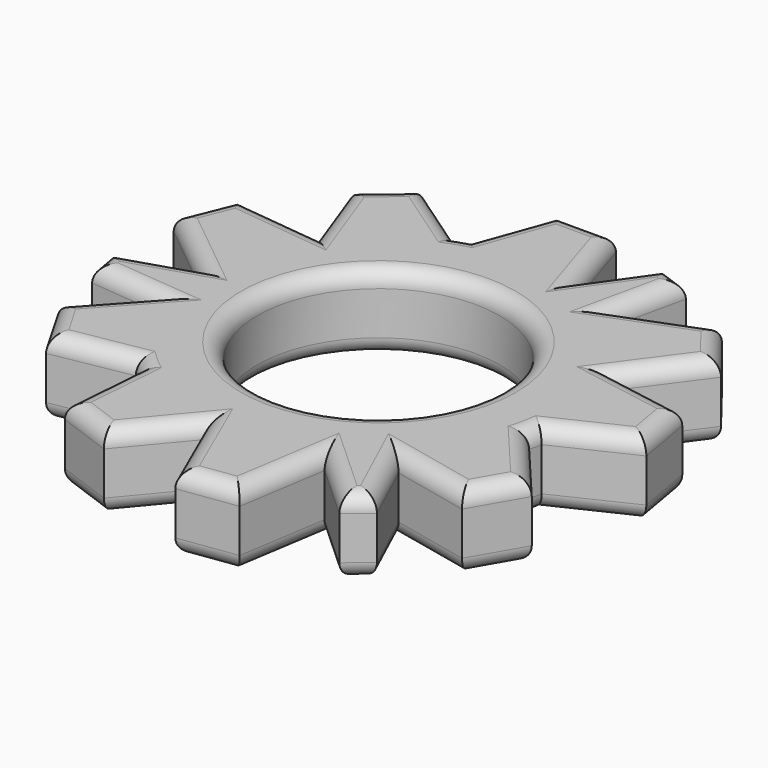
from build123d import *

# Parameters (mm, degrees)
F0_R     = 11.2
F1_DEPTH = 7
F2_R     = 1.5


with BuildPart() as f1:
    # F0 (on Top) → F1 (new body)
    with BuildSketch(Plane.XY):
        with BuildLine():
            Line((-2.554869, 23.895517), (-5.062115, 16.96069))
            ThreePointArc((-5.062115, 16.96069), (-5.619032, 16.784412), (-6.16983, 16.589852))
            Line((-6.16983, 16.589852), (-12.572387, 20.99502))
            Line((-12.572387, 20.99502), (-16.716925, 17.517339))
            Line((-16.716925, 17.517339), (-14.179966, 10.593327))
            Line((-14.179966, 10.593327), (-22.082106, 11.478296))
            Line((-22.082106, 11.478296), (-24.111726, 6.463109))
            Line((-24.111726, 6.463109), (-17.656009, 1.24714))
            Line((-17.656009, 1.24714), (-24.162371, -0.823202))
            Line((-24.162371, -0.823202), (-23.685021, -3.496856))
            Line((-23.685021, -3.496856), (-17.21945, -4.096405))
            Line((-17.21945, -4.096405), (-22.121846, -9.474873))
            Line((-22.121846, -9.474873), (-19.41669, -14.16034))
            Line((-19.41669, -14.16034), (-12.157331, -12.864265))
            ThreePointArc((-12.157331, -12.864265), (-11.726211, -13.258431), (-11.282319, -13.638155))
            Line((-11.282319, -13.638155), (-11.896027, -21.385516))
            Line((-11.896027, -21.385516), (-6.811998, -23.235951))
            Line((-6.811998, -23.235951), (-2.084107, -17.576874))
            Line((-2.084107, -17.576874), (1.100557, -24.862813))
            Line((1.100557, -24.862813), (6.458647, -24.112921))
            Line((6.458647, -24.112921), (7.747949, -15.914122))
            Line((7.747949, -15.914122), (12.7941, -20.513626))
            Line((12.7941, -20.513626), (14.870876, -18.763402))
            Line((14.870876, -18.763402), (12.157316, -12.864279))
            Line((12.157316, -12.864279), (19.266404, -14.420644))
            Line((19.266404, -14.420644), (21.971559, -9.735177))
            Line((21.971559, -9.735177), (17.219446, -4.096425))
            ThreePointArc((17.219446, -4.096425), (17.345243, -3.525981), (17.452148, -2.951697))
            Line((17.452148, -2.951697), (24.468414, 0.390496))
            Line((24.468414, 0.390496), (23.528923, 5.718612))
            Line((23.528923, 5.718612), (16.264073, 6.983547))
            Line((16.264073, 6.983547), (20.981549, 13.384517))
            Line((20.981549, 13.384517), (17.653079, 17.649813))
            Line((17.653079, 17.649813), (9.908059, 14.666982))
            Line((9.908059, 14.666982), (11.368272, 21.336828))
            Line((11.368272, 21.336828), (8.814145, 22.260258))
            Line((8.814145, 22.260258), (5.062135, 16.960684))
            Line((5.062135, 16.960684), (2.855442, 23.895517))
            Line((2.855442, 23.895517), (-2.554869, 23.895517))
        make_face()
        Circle(F0_R, mode=Mode.SUBTRACT)
    extrude(amount=F1_DEPTH)

    # F2
    f2_edges = [f1.edges().sort_by_distance(p)[0] for p in [
        (17.345243, -3.525981, 0),
        (20.960281, -1.2806, 0),
        (23.998669, 3.054554, 0),
        (19.896498, 6.35108, 0),
        (18.622811, 10.184032, 0),
        (19.317314, 15.517165, 0),
        (13.780569, 16.158397, 0),
        (10.638166, 18.001905, 0),
        (10.091208, 21.798543, 0),
        (6.93814, 19.610471, 0),
        (3.958788, 20.4281, 0),
        (0.150286, 23.895517, 0),
        (-3.808492, 20.428103, 0),
        (-5.619032, 16.784412, 0),
        (-9.371108, 18.792436, 0),
        (-14.644656, 19.25618, 0),
        (-15.448445, 14.055333, 0),
        (-18.131036, 11.035811, 0),
        (-23.096916, 8.970702, 0),
        (-20.883867, 3.855124, 0),
        (-20.90919, 0.211969, 0),
        (-23.923696, -2.160029, 0),
        (-20.452236, -3.79663, 0),
        (-19.670648, -6.785639, 0),
        (-20.769268, -11.817607, 0),
        (-15.787011, -13.512302, 0),
        (-11.726211, -13.258431, 0),
        (-11.589173, -17.511836, 0),
        (-9.354013, -22.310734, 0),
        (-4.448053, -20.406413, 0),
        (-0.491775, -21.219843, 0),
        (3.779602, -24.487867, 0),
        (7.103298, -20.013522, 0),
        (10.271024, -18.213874, 0),
        (13.832488, -19.638514, 0),
        (13.514096, -15.813841, 0),
        (15.71186, -13.642461, 0),
        (20.618982, -12.07791, 0),
        (19.595502, -6.915801, 0),
        (-11.2, 0, 0),
        (17.345243, -3.525981, 7),
        (20.960281, -1.2806, 7),
        (23.998669, 3.054554, 7),
        (19.896498, 6.35108, 7),
        (18.622811, 10.184032, 7),
        (19.317314, 15.517165, 7),
        (13.780569, 16.158397, 7),
        (10.638166, 18.001905, 7),
        (10.091208, 21.798543, 7),
        (6.93814, 19.610471, 7),
        (3.958788, 20.4281, 7),
        (0.150286, 23.895517, 7),
        (-3.808492, 20.428103, 7),
        (-5.619032, 16.784412, 7),
        (-9.371108, 18.792436, 7),
        (-14.644656, 19.25618, 7),
        (-15.448445, 14.055333, 7),
        (-18.131036, 11.035811, 7),
        (-23.096916, 8.970702, 7),
        (-20.883867, 3.855124, 7),
        (-20.90919, 0.211969, 7),
        (-23.923696, -2.160029, 7),
        (-20.452236, -3.79663, 7),
        (-19.670648, -6.785639, 7),
        (-20.769268, -11.817607, 7),
        (-15.787011, -13.512302, 7),
        (-11.726211, -13.258431, 7),
        (-11.589173, -17.511836, 7),
        (-9.354013, -22.310734, 7),
        (-4.448053, -20.406413, 7),
        (-0.491775, -21.219843, 7),
        (3.779602, -24.487867, 7),
        (7.103298, -20.013522, 7),
        (10.271024, -18.213874, 7),
        (13.832488, -19.638514, 7),
        (13.514096, -15.813841, 7),
        (15.71186, -13.642461, 7),
        (20.618982, -12.07791, 7),
        (19.595502, -6.915801, 7),
        (-11.2, 0, 7),
    ]]
    fillet(f2_edges, radius=F2_R)


solid = f1.part
